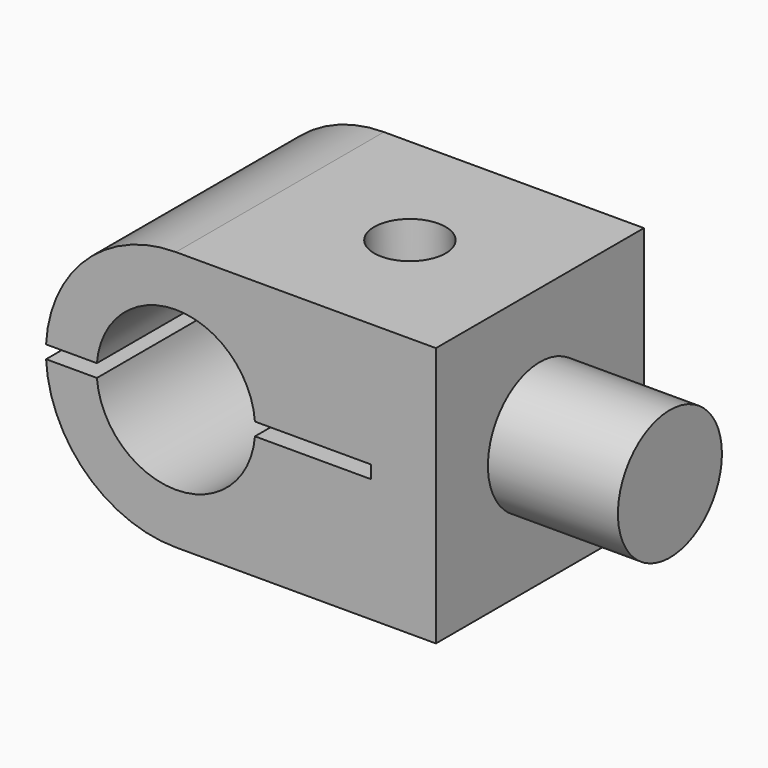
from build123d import *

# Parameters (mm, degrees)
F0_R      = 6.1
F1_DEPTH  = 20
F3_R      = 1.5
F4_DEPTH  = 25
F5_DEPTH  = 25
F6_R      = 5
F7_DEPTH  = 10
F8_R      = 2.75
F8_R_2    = 1.5
F9_DEPTH  = 3
F10_R     = 1.5
F11_DEPTH = 2


with BuildPart() as f1:
    # F0 (on Front) → F1 (new body)
    with BuildSketch(Plane.XZ):
        with BuildLine():
            ThreePointArc((0, 10), (7.0710678119, 7.0710678119), (10, 0))
            ThreePointArc((10, 0), (7.0710678119, -7.0710678119), (0, -10))
            Line((0, -10), (20, -10))
            Line((20, -10), (20, 10))
            Line((20, 10), (0, 10))
        make_face()
        with BuildLine():
            ThreePointArc((0, -10), (7.0710678119, -7.0710678119), (10, 0))
            ThreePointArc((10, 0), (7.0710678119, 7.0710678119), (0, 10))
            ThreePointArc((0, 10), (-10, 0), (0, -10))
        make_face()
        Circle(F0_R, mode=Mode.SUBTRACT)
    extrude(amount=F1_DEPTH)

    # F3 (on face) → F4 (cut)
    with BuildSketch(Plane.XY.offset(10)):
        with Locations((10, -10)):
            Circle(F3_R)
    extrude(amount=-F4_DEPTH, mode=Mode.SUBTRACT)

    # F2 (on face) → F5 (cut)
    with BuildSketch(Plane.XZ.offset(20)):
        with BuildLine():
            Line((-9.9874921777, 0.5), (-17.8410350345, 0.5))
            Line((-17.8410350345, 0.5), (-17.8410350345, -0.5))
            Line((-17.8410350345, -0.5), (-9.9874921777, -0.5))
            ThreePointArc((-9.9874921777, -0.5), (-10, 0), (-9.9874921777, 0.5))
        make_face()
        with BuildLine():
            Line((-6.0794736614, 0.5), (-9.9874921777, 0.5))
            ThreePointArc((-9.9874921777, 0.5), (-10, 0), (-9.9874921777, -0.5))
            Line((-9.9874921777, -0.5), (-6.0794736614, -0.5))
            ThreePointArc((-6.0794736614, -0.5), (-6.1, 0), (-6.0794736614, 0.5))
        make_face()
        with BuildLine():
            Line((15, 0.5), (6.0794736614, 0.5))
            ThreePointArc((6.0794736614, 0.5), (6.0948662551, 0.2502105766), (6.1, 0))
            ThreePointArc((6.1, 0), (6.0948662551, -0.2502105766), (6.0794736614, -0.5))
            Line((6.0794736614, -0.5), (15, -0.5))
            Line((15, -0.5), (15, 0.5))
        make_face()
        with BuildLine():
            Line((15, 0.5), (6.0794736614, 0.5))
            ThreePointArc((6.0794736614, 0.5), (6.0948662551, 0.2502105766), (6.1, 0))
            ThreePointArc((6.1, 0), (6.0948662551, -0.2502105766), (6.0794736614, -0.5))
            Line((6.0794736614, -0.5), (15, -0.5))
            Line((15, -0.5), (15, 0.5))
        make_face()
    extrude(amount=-F5_DEPTH, mode=Mode.SUBTRACT)

    # F6 (on face) → F7 (join)
    with BuildSketch(Plane.YZ.offset(20)):
        with Locations((-10, 0)):
            Circle(F6_R)
    extrude(amount=F7_DEPTH)

    # F8 (on face) → F9 (cut)
    with BuildSketch(Plane.XY.offset(10)):
        with Locations((10, -10)):
            Circle(F8_R)
        with Locations((10, -10)):
            Circle(F8_R_2, mode=Mode.SUBTRACT)
    extrude(amount=-F9_DEPTH, mode=Mode.SUBTRACT)

    # F10 (on face) → F11 (cut)
    with BuildSketch(Plane(origin=(0, 0, -10), x_dir=(1, 0, 0), z_dir=(0, 0, -1))):
        Polygon((11.5877132403, 12.75), (8.4122867597, 12.75), (6.8245735195, 10), (8.4122867597, 7.25), (11.5877132403, 7.25), (13.1754264805, 10), align=None)
        with Locations((10, 10)):
            Circle(F10_R, mode=Mode.SUBTRACT)
    extrude(amount=-F11_DEPTH, mode=Mode.SUBTRACT)


solid = f1.part
